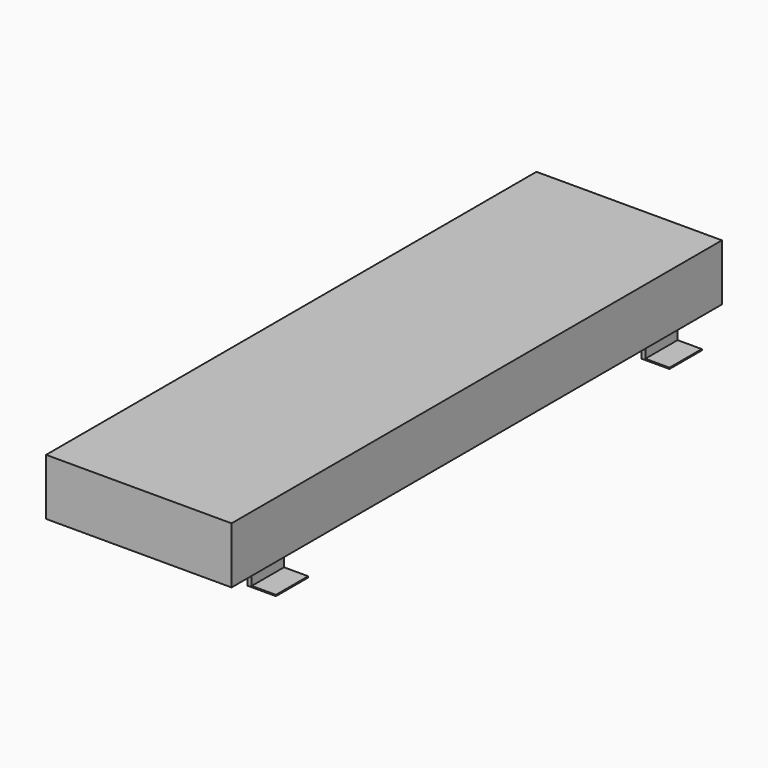
from build123d import *

# Parameters (mm, degrees)
F1_DEPTH = 760
F2_W     = 50
F2_H     = 25
F2_W_2   = 560
F3_DEPTH = 260.001


with BuildPart() as f1:
    # F0 (on Front) → F1 (new body)
    with BuildSketch(Plane.XZ):
        Polygon((115, 70), (-115, 70), (-115, 0), (-100, 0), (-70, 0), (70, 0), (100, 0), (115, 0), align=None)
        Polygon((-70, 0), (-100, 0), (-100, -23.5), (-130, -23.5), (-130, -25), (-95, -25), (-95, -5), (-70, -5), align=None)
        Polygon((100, -23.5), (100, 0), (70, 0), (70, -5), (95, -5), (95, -25), (130, -25), (130, -23.5), align=None)
    extrude(amount=F1_DEPTH)

    # F2 (on face) → F3 (cut, through all)
    with BuildSketch(Plane(origin=(-130, 0, 0), x_dir=(0, -1, 0), z_dir=(-1, 0, 0))):
        with Locations((25, -12.5)):
            Rectangle(F2_W, F2_H)
        with Locations((735, -12.5)):
            Rectangle(F2_W, F2_H)
        with Locations((380, -12.5)):
            Rectangle(F2_W_2, F2_H)
    extrude(amount=-F3_DEPTH, mode=Mode.SUBTRACT)


solid = f1.part
